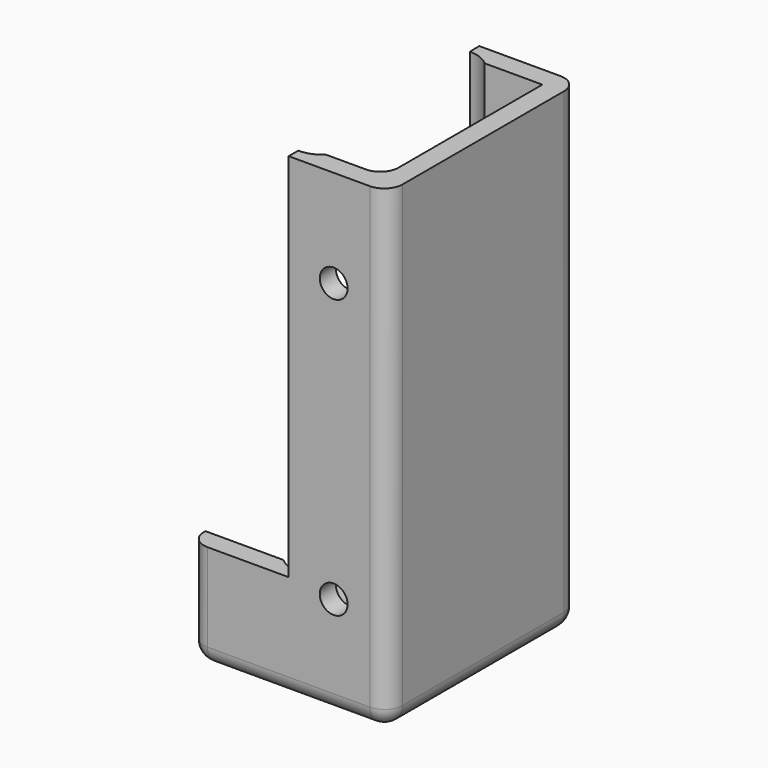
from build123d import *

# Parameters (mm, degrees)
F0_W     = 19.92
F0_H     = 24.92
F0_R     = 1.5
F0_R_2   = 3.5
F0_W_2   = 2.54
F1_DEPTH = 2.54
F2_DEPTH = 60
F3_R     = 1.7526
F4_DEPTH = 34.544
F5_R     = 2.286
F7_DEPTH = 61.8236
F8_W     = 10.214
F8_H     = 46.6414740682
F9_DEPTH = 44.958


with BuildPart() as f1:
    # F0 (on Top) → F1 (new body)
    with BuildSketch(Plane.XY):
        Polygon((12.5, -15), (12.5, 15), (-12.5, 15), (-12.5, 12.46), (-9.96, 12.46), (9.96, 12.46), (9.96, -12.46), (-9.96, -12.46), (-12.5, -12.46), (-12.5, -15), align=None)
        Rectangle(F0_W, F0_H)
        with Locations((0, -9.5)):
            Circle(F0_R, mode=Mode.SUBTRACT)
        with Locations((-8, 0)):
            Circle(F0_R, mode=Mode.SUBTRACT)
        Circle(F0_R_2, mode=Mode.SUBTRACT)
        with Locations((8, 0)):
            Circle(F0_R, mode=Mode.SUBTRACT)
        with Locations((0, 9.5)):
            Circle(F0_R, mode=Mode.SUBTRACT)
        with Locations((-11.23, 0)):
            Rectangle(F0_W_2, F0_H)
    extrude(amount=F1_DEPTH)

    # F0 (on Top) → F2 (join)
    with BuildSketch(Plane.XY):
        Polygon((12.5, -15), (12.5, 15), (-12.5, 15), (-12.5, 12.46), (-9.96, 12.46), (9.96, 12.46), (9.96, -12.46), (-9.96, -12.46), (-12.5, -12.46), (-12.5, -15), align=None)
    extrude(amount=F2_DEPTH)

    # F3 (on face) → F4 (cut)
    with BuildSketch(Plane.XZ.offset(15)):
        with Locations((5.6674, 12.7526)):
            Circle(F3_R)
        with Locations((5.6674, 47.7526)):
            Circle(F3_R)
    extrude(amount=-F4_DEPTH, mode=Mode.SUBTRACT)

    # F5
    f5_edges = [f1.edges().sort_by_distance(p)[0] for p in [
        (12.5, 0, 0),
        (0, -15, 0),
        (-12.5, 0, 0),
        (0, 15, 0),
        (-12.5, -15, 30),
        (12.5, -15, 30),
        (12.5, 15, 30),
        (-12.5, 15, 30),
        (9.96, -12.46, 31.27),
    ]]
    fillet(f5_edges, radius=F5_R)

    # F6 (on face) → F7 (cut)
    with BuildSketch(Plane.XY.offset(2.54)):
        with BuildLine():
            Line((-2.6904274753, 12.46), (2.6904274753, 12.46))
            ThreePointArc((2.6904274753, 12.46), (0, 13.5), (-2.6904274753, 12.46))
        make_face()
        with BuildLine():
            Line((2.6904274753, -12.46), (-2.6904274753, -12.46))
            ThreePointArc((-2.6904274753, -12.46), (0, -13.5), (2.6904274753, -12.46))
        make_face()
    extrude(amount=F7_DEPTH, mode=Mode.SUBTRACT)

    # F8 (on face) → F9 (cut)
    with BuildSketch(Plane.XZ.offset(15)):
        Polygon((0, 64.0577673912), (-17.1696953475, 64.0577673912), (-17.1696953475, 13.3585259318), (-10.214, 13.3585259318), (-10.214, 60), (0, 60), align=None)
        with Locations((-5.107, 36.6792629659)):
            Rectangle(F8_W, F8_H)
    extrude(amount=-F9_DEPTH, mode=Mode.SUBTRACT)


solid = f1.part
